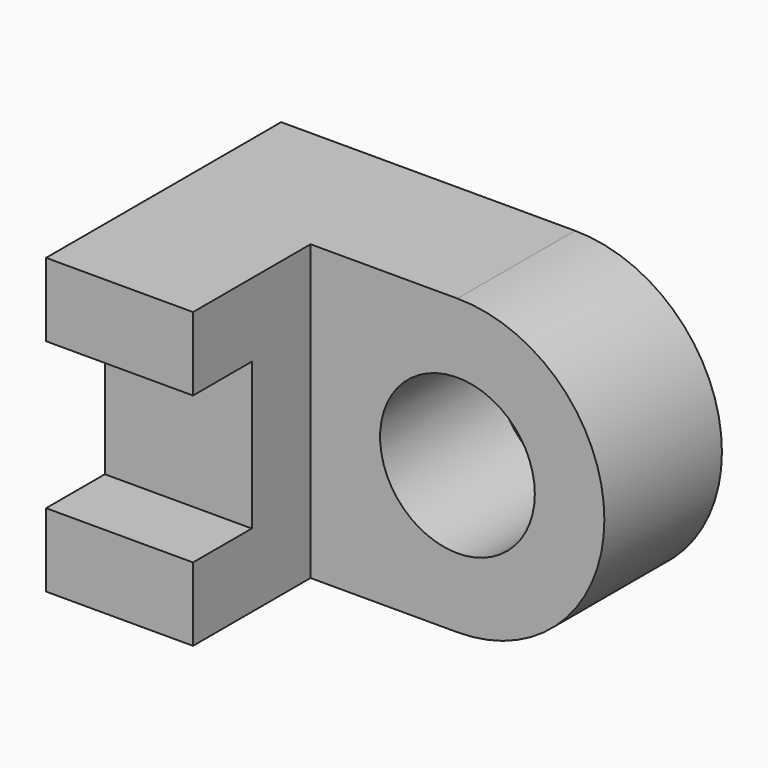
from build123d import *

# Parameters (mm, degrees)
F1_DEPTH = 25.4
F2_W     = 6.35
F2_H     = 12.7
F3_DEPTH = 25.4
F5_DEPTH = 12.7
F6_R     = 6.68714
F7_DEPTH = 25.4


with BuildPart() as f1:
    # F0 (on Top) → F1 (new body)
    with BuildSketch(Plane.XY):
        Polygon((0, 25.4), (0, 0), (12.7, 0), (12.7, 12.7), (25.4, 12.7), (25.4, 25.4), align=None)
    extrude(amount=F1_DEPTH)

    # F2 (on face) → F3 (cut)
    with BuildSketch(Plane.YZ.offset(12.7)):
        with Locations((3.175, 12.7)):
            Rectangle(F2_W, F2_H)
    extrude(amount=-F3_DEPTH, mode=Mode.SUBTRACT)

    # F4 (on face) → F5 (join)
    with BuildSketch(Plane.XZ.offset(-12.7)):
        with BuildLine():
            Line((25.4, 25.4), (25.4, 0))
            ThreePointArc((25.4, 0), (38.1, 12.7), (25.4, 25.4))
        make_face()
    extrude(amount=-F5_DEPTH)

    # F6 (on face) → F7 (cut)
    with BuildSketch(Plane.XZ.offset(-12.7)):
        with Locations((25.4, 12.7)):
            Circle(F6_R)
    extrude(amount=-F7_DEPTH, mode=Mode.SUBTRACT)


solid = f1.part
